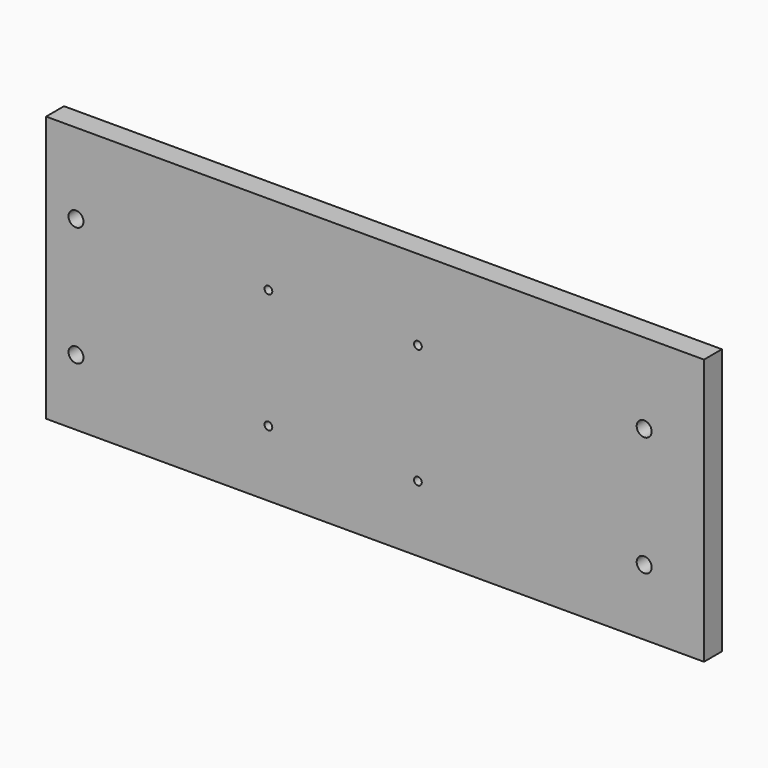
from build123d import *

# Parameters (mm, degrees)
F0_W     = 6
F0_H     = 4.448176
F0_R     = 0.125
F0_R_2   = 0.065
F0_W_2   = 5
F1_DEPTH = 0.375


with BuildPart() as f1:
    # F0 (on Front) → F1 (new body)
    with BuildSketch(Plane.XZ):
        with Locations((-3, 0.120438)):
            Rectangle(F0_W, F0_H)
        with Locations((-5.5, -1)):
            Circle(F0_R, mode=Mode.SUBTRACT)
        with Locations((-2.283164, -1)):
            Circle(F0_R_2, mode=Mode.SUBTRACT)
        with Locations((-5.5, 1)):
            Circle(F0_R, mode=Mode.SUBTRACT)
        with Locations((-2.283164, 1)):
            Circle(F0_R_2, mode=Mode.SUBTRACT)
        with Locations((2.5, 0.120438)):
            Rectangle(F0_W_2, F0_H)
        with Locations((0.216836, -1)):
            Circle(F0_R_2, mode=Mode.SUBTRACT)
        with Locations((4, -1)):
            Circle(F0_R, mode=Mode.SUBTRACT)
        with Locations((0.216836, 1)):
            Circle(F0_R_2, mode=Mode.SUBTRACT)
        with Locations((4, 1)):
            Circle(F0_R, mode=Mode.SUBTRACT)
    extrude(amount=F1_DEPTH)


solid = f1.part
